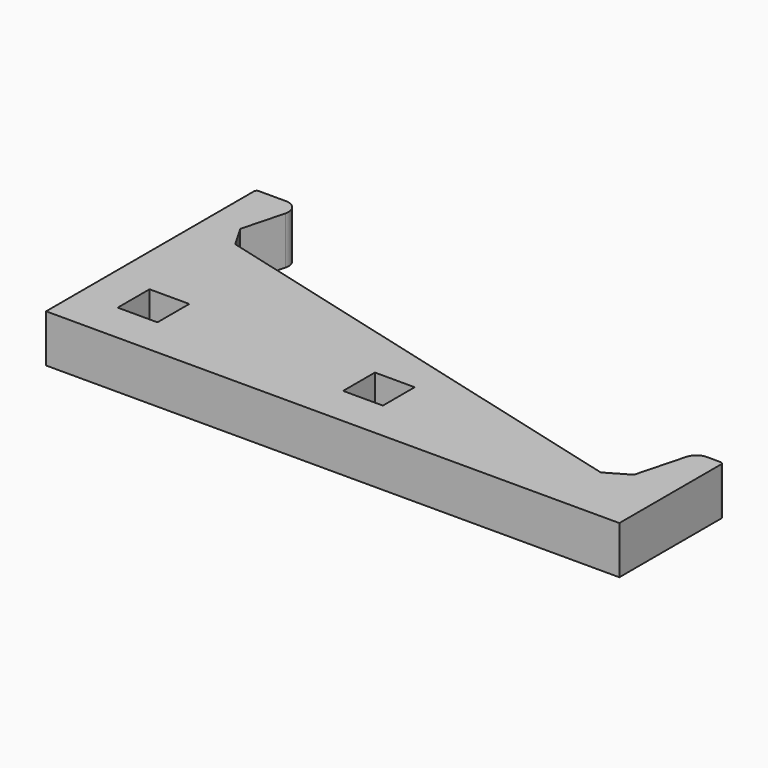
from build123d import *

# Parameters (mm, degrees)
PAD_DEPTH       = 18
FILLET_R        = 5
FILLET001_R     = 5
FILLET002_R     = 1
FILLET003_R     = 1
CHAMFER_SIZE    = 7
CHAMFER001_SIZE = 7
SKETCH001_W     = 15
SKETCH001_H     = 15
POCKET_DEPTH    = 10
SKETCH002_R     = 1
POCKET001_DEPTH = 8
SKETCH003_R     = 1
POCKET002_DEPTH = 8


with BuildPart() as part:
    # Sketch → Pad (new body)
    with BuildSketch(Plane.XY):
        Polygon((206.173076, -21.002959), (196.173076, -21.002959), (188.480768, -50), (0, 0), (7.692308, 28.997041), (-10, 28.997041), (-10, -69.999032), (206.173076, -69.999032), align=None)
    extrude(amount=PAD_DEPTH)

    # Fillet
    fillet_edges = [part.edges().sort_by_distance(p)[0] for p in [
        (7.692308, 28.997041, 9),
    ]]
    fillet(fillet_edges, radius=FILLET_R)

    # Fillet001
    fillet001_edges = [part.edges().sort_by_distance(p)[0] for p in [
        (196.173076, -21.002959, 9),
    ]]
    fillet(fillet001_edges, radius=FILLET001_R)

    # Fillet002
    fillet002_edges = [part.edges().sort_by_distance(p)[0] for p in [
        (206.173076, -21.002959, 9),
    ]]
    fillet(fillet002_edges, radius=FILLET002_R)

    # Fillet003
    fillet003_edges = [part.edges().sort_by_distance(p)[0] for p in [
        (-10, 28.997041, 9),
    ]]
    fillet(fillet003_edges, radius=FILLET003_R)

    # Chamfer
    chamfer_edges = [part.edges().sort_by_distance(p)[0] for p in [
        (0, 0, 9),
    ]]
    chamfer(chamfer_edges, length=CHAMFER_SIZE)

    # Chamfer001
    chamfer001_edges = [part.edges().sort_by_distance(p)[0] for p in [
        (188.480768, -50, 9),
    ]]
    chamfer(chamfer001_edges, length=CHAMFER001_SIZE)

    # Sketch001 → Pocket (cut)
    with BuildSketch(Plane.XY.offset(18)):
        with Locations((12.5, -47.499032)):
            Rectangle(SKETCH001_W, SKETCH001_H)
        with Locations((97.5, -47.499032)):
            Rectangle(SKETCH001_W, SKETCH001_H)
    extrude(amount=-POCKET_DEPTH, mode=Mode.SUBTRACT)

    # Sketch002 → Pocket001 (cut)
    with BuildSketch(Plane.XY.offset(8)):
        with Locations((12.5, -47.499032)):
            Circle(SKETCH002_R)
    extrude(amount=-POCKET001_DEPTH, mode=Mode.SUBTRACT)

    # Sketch003 → Pocket002 (cut)
    with BuildSketch(Plane.XY.offset(8)):
        with Locations((97.5, -47.499032)):
            Circle(SKETCH003_R)
    extrude(amount=-POCKET002_DEPTH, mode=Mode.SUBTRACT)


solid = part.part
